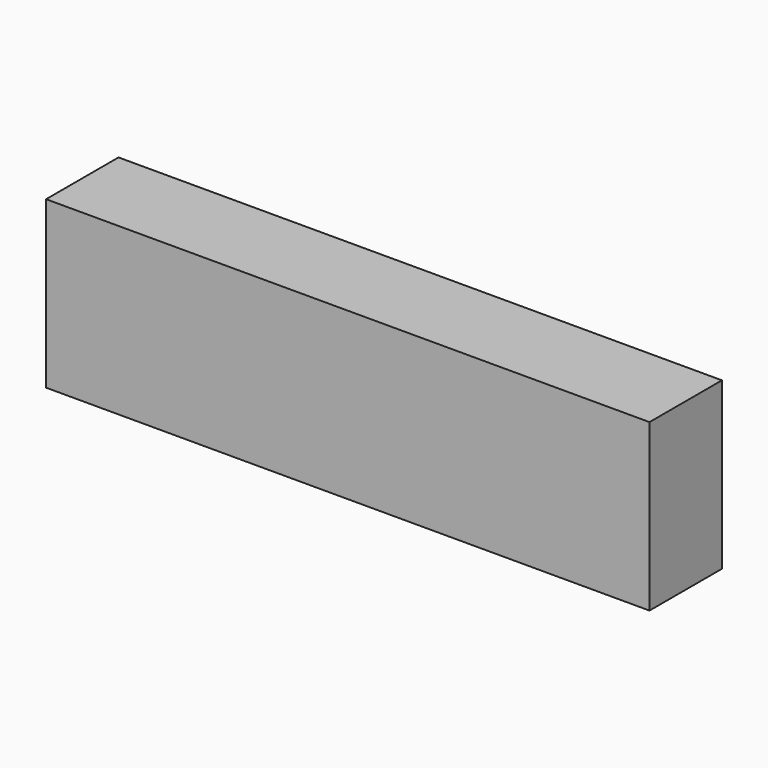
from build123d import *

# Parameters (mm, degrees)
F0_W     = 20
F0_H     = 5.5
F0_R     = 2.15
F1_DEPTH = 3
F2_DEPTH = 1


with BuildPart() as f1:
    # F0 (on Front) → F1 (new body)
    with BuildSketch(Plane.XZ):
        Rectangle(F0_W, F0_H)
        Circle(F0_R, mode=Mode.SUBTRACT)
        Circle(F0_R)
    extrude(amount=F1_DEPTH)

    # F0 (on Front) → F2 (cut)
    with BuildSketch(Plane.XZ):
        Circle(F0_R)
    extrude(amount=F2_DEPTH, mode=Mode.SUBTRACT)


solid = f1.part
